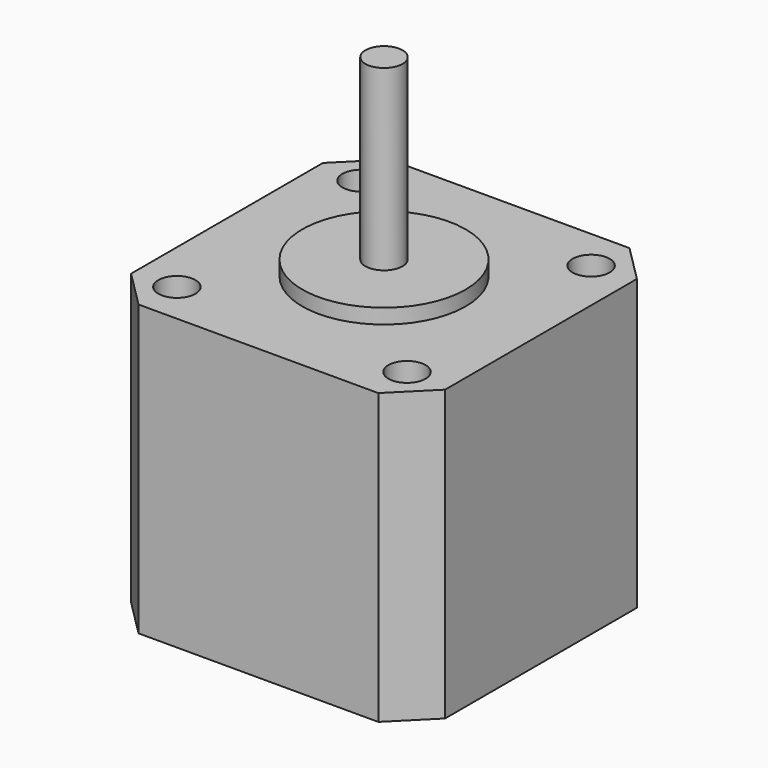
from build123d import *

# Parameters (mm, degrees)
F0_W     = 42.3
F0_H     = 42.3
F1_DEPTH = 39
F2_R     = 11
F3_DEPTH = 2
F4_R     = 2.5
F5_DEPTH = 24
F7_D     = 5
F7_DEPTH = 20
F7_TIP   = 1.5021515476
F8_SIZE  = 5


with BuildPart() as f1:
    # F0 (on Top) → F1 (new body)
    with BuildSketch(Plane.XY):
        with Locations((21.15, 21.15)):
            Rectangle(F0_W, F0_H)
    extrude(amount=F1_DEPTH)

    # F2 (on face) → F3 (join)
    with BuildSketch(Plane.XY.offset(39)):
        with Locations((21.15, 21.15)):
            Circle(F2_R)
    extrude(amount=F3_DEPTH)

    # F7
    with Locations(Plane.XY.offset(39)):
        with Locations((5.65, 36.65), (36.65, 36.65), (36.65, 5.65), (5.65, 5.65)):
            Hole(F7_D / 2, depth=F7_DEPTH)
            with Locations((0, 0, -(F7_DEPTH + F7_TIP / 2))):  # 118° drill point
                Cone(0, F7_D / 2, F7_TIP, mode=Mode.SUBTRACT)

    # F8
    f8_edges = [f1.edges().sort_by_distance(p)[0] for p in [
        (0, 42.3, 19.5),
        (0, 0, 19.5),
        (42.3, 0, 19.5),
        (42.3, 42.3, 19.5),
    ]]
    chamfer(f8_edges, length=F8_SIZE)


with BuildPart() as f5:
    # F4 (on face) → F5 (new body)
    with BuildSketch(Plane.XY.offset(41)):
        with Locations((21.15, 21.15)):
            Circle(F4_R)
    extrude(amount=F5_DEPTH)


solid = Compound([f1.part, f5.part])
